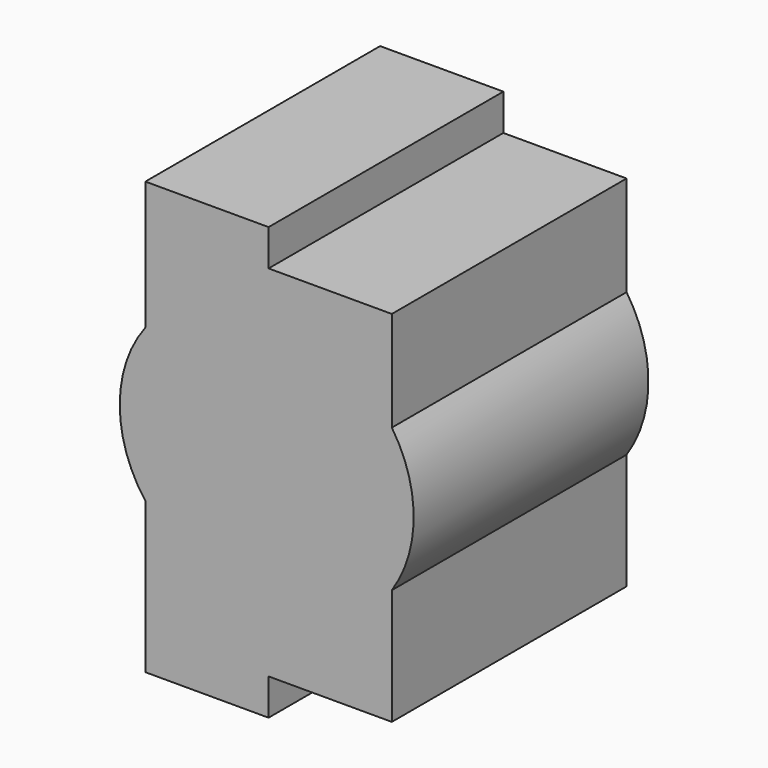
from build123d import *

# Parameters (mm, degrees)
F1_DEPTH = 25


with BuildPart() as f1:
    # F0 (on Front) → F1 (new body)
    with BuildSketch(Plane.XZ):
        with BuildLine():
            Line((-10.5, -5.554838), (-10.5, -18.4))
            Line((-10.5, -18.4), (0, -18.4))
            Line((0, -18.4), (0, -15.3))
            Line((0, -15.3), (10.5, -15.3))
            Line((10.5, -15.3), (10.5, -5.419355))
            ThreePointArc((10.5, -5.419355), (12.362641, 0.677419), (10.5, 6.774193))
            Line((10.5, 6.774193), (10.5, 15.3))
            Line((10.5, 15.3), (0, 15.3))
            Line((0, 15.3), (0, 18.4))
            Line((0, 18.4), (-10.5, 18.4))
            Line((-10.5, 18.4), (-10.5, 7.451612))
            ThreePointArc((-10.5, 7.451612), (-12.681366, 0.948387), (-10.5, -5.554838))
        make_face()
    extrude(amount=F1_DEPTH)


solid = f1.part
